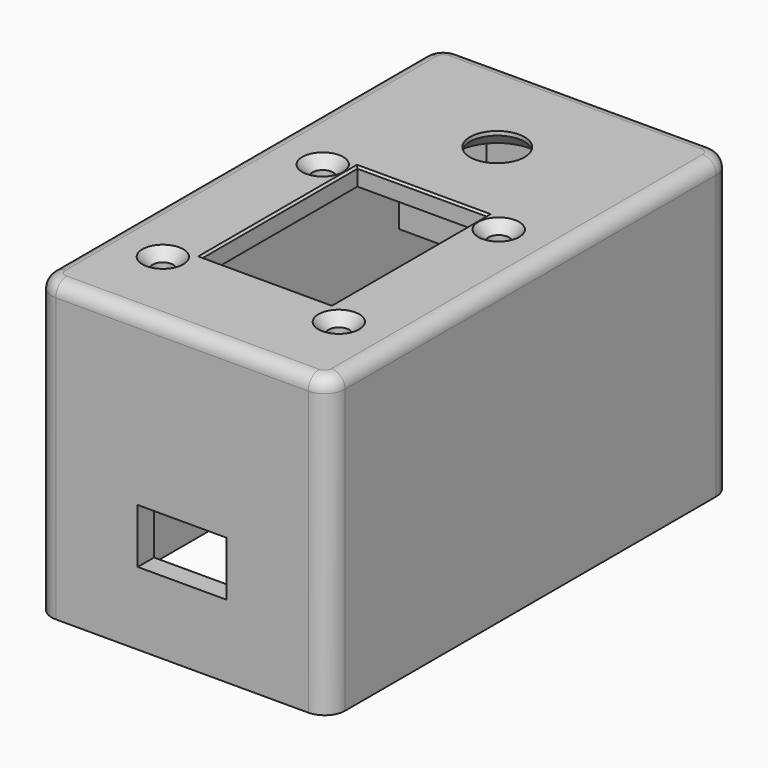
from build123d import *

# Parameters (mm, degrees)
SKETCH003_W       = 37
SKETCH003_H       = 68
PAD002_DEPTH      = 2.6
SKETCH005_R       = 1.5
SKETCH005_R_2     = 4
SKETCH005_W       = 19
SKETCH005_H       = 28.5
POCKET001_DEPTH   = 2.601
SKETCH014_W       = 37
SKETCH014_H       = 68
PAD009_DEPTH      = 2.6
PAD009_DEPTH_BACK = 40.9
SKETCH019_W       = 13
SKETCH019_H       = 8
POCKET005_DEPTH   = 3.501
CHAMFER001_SIZE   = 1.5
SKETCH020_R       = 0.8
SKETCH020_W       = 19
SKETCH020_H       = 12.5
POCKET006_DEPTH   = 3.501
SKETCH034_W       = 14
SKETCH034_H       = 6.5
SKETCH034_H_2     = 2
PAD019_DEPTH      = 6.5
FILLET_R          = 2
CHAMFER_SIZE      = 0.3
CHAMFER002_SIZE   = 2
SKETCH050_W       = 19
SKETCH050_H       = 5
POCKET013_DEPTH   = 2.2


with BuildPart() as part:
    # Sketch003 → Pad002 (new body)
    with BuildSketch(Plane.XY):
        with Locations((18, 33.5)):
            Rectangle(SKETCH003_W, SKETCH003_H)
    extrude(amount=PAD002_DEPTH)

    # Sketch005 → Pocket001 (cut, through all)
    with BuildSketch(Plane.XY):
        with Locations((30.9, 38.4)):
            Circle(SKETCH005_R)
        with Locations((5.1, 38.4)):
            Circle(SKETCH005_R)
        with Locations((5.1, 9.1)):
            Circle(SKETCH005_R)
        with Locations((30.9, 9.1)):
            Circle(SKETCH005_R)
        with Locations((18, 54.25)):
            Circle(SKETCH005_R_2)
        with Locations((18, 26.25)):
            Rectangle(SKETCH005_W, SKETCH005_H)
    extrude(amount=POCKET001_DEPTH, mode=Mode.SUBTRACT)

    # Sketch014 → Pad009 (join, two sides)
    with BuildSketch(Plane.XY) as pad009_sk:
        with BuildLine():
            Line((-0.5, 70.5), (36.5, 70.5))
            ThreePointArc((39.5, 67.5), (38.62132, 69.62132), (36.5, 70.5))
            Line((39.5, 67.5), (39.5, -0.5))
            ThreePointArc((36.5, -3.5), (38.62132, -2.62132), (39.5, -0.5))
            Line((36.5, -3.5), (-0.5, -3.5))
            ThreePointArc((-3.5, -0.5), (-2.62132, -2.62132), (-0.5, -3.5))
            Line((-3.5, -0.5), (-3.5, 67.5))
            ThreePointArc((-0.5, 70.5), (-2.62132, 69.62132), (-3.5, 67.5))
        make_face()
        with Locations((18, 33.5)):
            Rectangle(SKETCH014_W, SKETCH014_H, mode=Mode.SUBTRACT)
    extrude(amount=PAD009_DEPTH)
    extrude(pad009_sk.sketch, amount=-PAD009_DEPTH_BACK)

    # Sketch019 → Pocket005 (cut, through all)
    with BuildSketch(Plane.XZ):
        with Locations((18, -26.225)):
            Rectangle(SKETCH019_W, SKETCH019_H)
    extrude(amount=POCKET005_DEPTH, mode=Mode.SUBTRACT)

    # Chamfer001
    chamfer001_edges = [part.edges().sort_by_distance(p)[0] for p in [
        (3.6, 9.1, 2.6),
        (3.6, 38.4, 2.6),
        (29.4, 38.4, 2.6),
        (29.4, 9.1, 2.6),
    ]]
    chamfer(chamfer001_edges, length=CHAMFER001_SIZE)

    # Sketch020 (on DatumPlane) → Pocket006 (cut, through all)
    with BuildSketch(Plane.XZ.offset(-67)):
        with Locations((11.2, -26.65)):
            Circle(SKETCH020_R)
        with Locations((24.8, -26.65)):
            Circle(SKETCH020_R)
        with Locations((18, -34.65)):
            Rectangle(SKETCH020_W, SKETCH020_H)
    extrude(amount=-POCKET006_DEPTH, mode=Mode.SUBTRACT)

    # Sketch034 → Pad019 (join)
    with BuildSketch(Plane.XY):
        with Locations((18, 64.25)):
            Rectangle(SKETCH034_W, SKETCH034_H)
        with Locations((18, 46)):
            Rectangle(SKETCH034_W, SKETCH034_H_2)
    extrude(amount=-PAD019_DEPTH)

    # Fillet
    fillet_edges = [part.edges().sort_by_distance(p)[0] for p in [
        (39.5, 33.5, 2.6),
    ]]
    fillet(fillet_edges, radius=FILLET_R)

    # Chamfer
    chamfer_edges = [part.edges().sort_by_distance(p)[0] for p in [
        (18, 12, 2.6),
        (8.5, 26.25, 2.6),
        (18, 40.5, 2.6),
        (27.5, 26.25, 2.6),
    ]]
    chamfer(chamfer_edges, length=CHAMFER_SIZE)

    # Chamfer002
    chamfer002_edges = [part.edges().sort_by_distance(p)[0] for p in [
        (14, 54.25, 0),
    ]]
    chamfer(chamfer002_edges, length=CHAMFER002_SIZE)

    # Sketch050 → Pocket013 (cut)
    with BuildSketch(Plane.XY):
        with Locations((18, 9.5)):
            Rectangle(SKETCH050_W, SKETCH050_H)
    extrude(amount=POCKET013_DEPTH, mode=Mode.SUBTRACT)


with BuildPart() as part_1:
    # Body001 placement: moved
    add(part.part.moved(Location((0, 0, 39.4))))


solid = part_1.part
